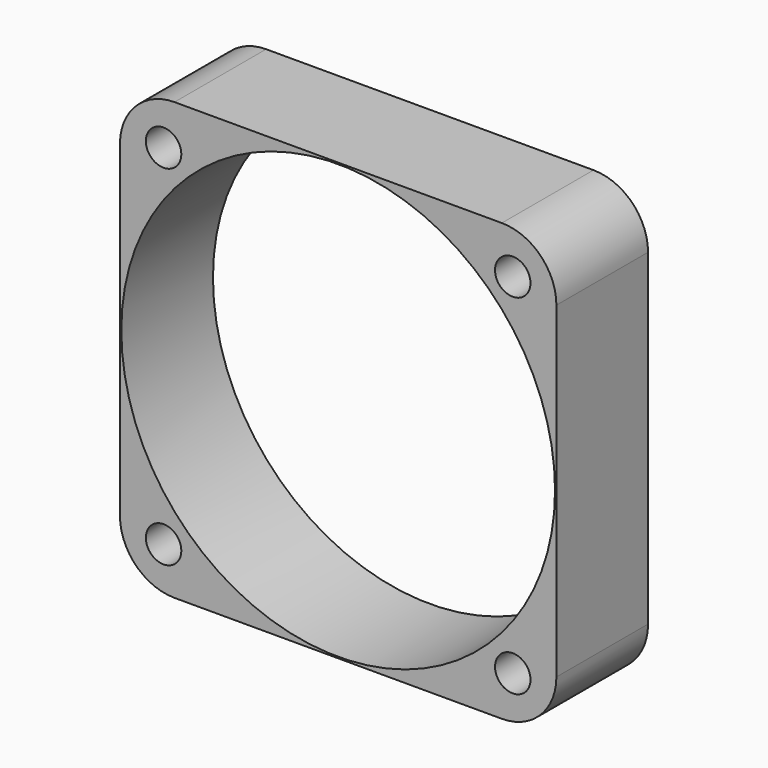
from build123d import *

# Parameters (mm, degrees)
F0_R     = 1.625
F0_R_2   = 19.875
F1_DEPTH = 10.5


with BuildPart() as f1:
    # F0 (on Front) → F1 (new body)
    with BuildSketch(Plane.XZ):
        with BuildLine():
            Line((15, 20), (-15, 20))
            ThreePointArc((-15, 20), (-18.535534, 18.535534), (-20, 15))
            Line((-20, 15), (-20, -15))
            ThreePointArc((-20, -15), (-18.535534, -18.535534), (-15, -20))
            Line((-15, -20), (15, -20))
            ThreePointArc((15, -20), (18.535534, -18.535534), (20, -15))
            Line((20, -15), (20, 15))
            ThreePointArc((20, 15), (18.535534, 18.535534), (15, 20))
        make_face()
        with Locations((-16, -16)):
            Circle(F0_R, mode=Mode.SUBTRACT)
        with Locations((16, -16)):
            Circle(F0_R, mode=Mode.SUBTRACT)
        with Locations((-16, 16)):
            Circle(F0_R, mode=Mode.SUBTRACT)
        Circle(F0_R_2, mode=Mode.SUBTRACT)
        with Locations((16, 16)):
            Circle(F0_R, mode=Mode.SUBTRACT)
    extrude(amount=F1_DEPTH)


solid = f1.part
